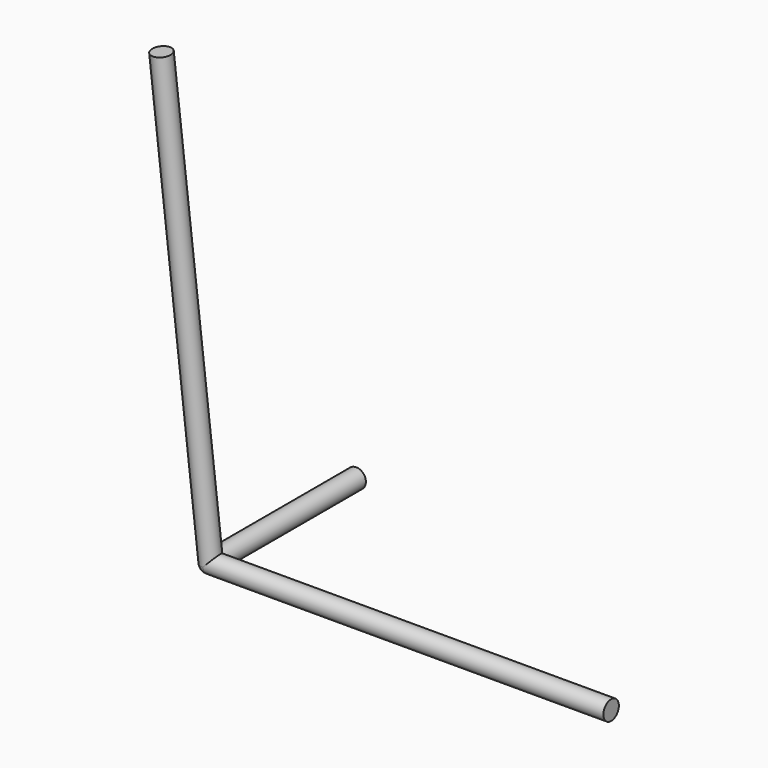
from build123d import *

# Parameters (mm, degrees)
F0_R      = 1.5
F1_DEPTH  = 62.3
F2_R      = 1.5
F3_DEPTH  = 28.3
F5_ANGLE  = 90
F12_R     = 1.5
F13_DEPTH = 70


with BuildPart() as f1:
    # F0 (on Right) → F1 (new body)
    with BuildSketch(Plane.YZ):
        with Locations((0, -40)):
            Circle(F0_R)
    extrude(amount=F1_DEPTH)

    # F2 (on Front) → F3 (join)
    with BuildSketch(Plane.XZ):
        with Locations((0, -40)):
            Circle(F2_R)
    extrude(amount=-F3_DEPTH)

    # F4 (on face) → F5 (revolve)
    with BuildSketch(Plane(origin=(0, 0, 0), x_dir=(0, -1, 0), z_dir=(-1, 0, 0))):
        with BuildLine():
            Line((0, -38.5), (0, -41.5))
            ThreePointArc((0, -41.5), (1.5, -40), (0, -38.5))
        make_face()
    revolve(axis=Axis((0, 0, -40), (0, 0, -1)), revolution_arc=F5_ANGLE)

    # F12 (on face) → F13 (join)
    with BuildSketch(Plane(origin=(2.779995, 1.983642, -39.706263), x_dir=(0.997564, -0.003481, 0.06967), z_dir=(-0.069756, -0.049774, 0.996322))):
        with Locations((-2.786783, -1.995828)):
            Circle(F12_R)
    extrude(amount=F13_DEPTH)


solid = f1.part
